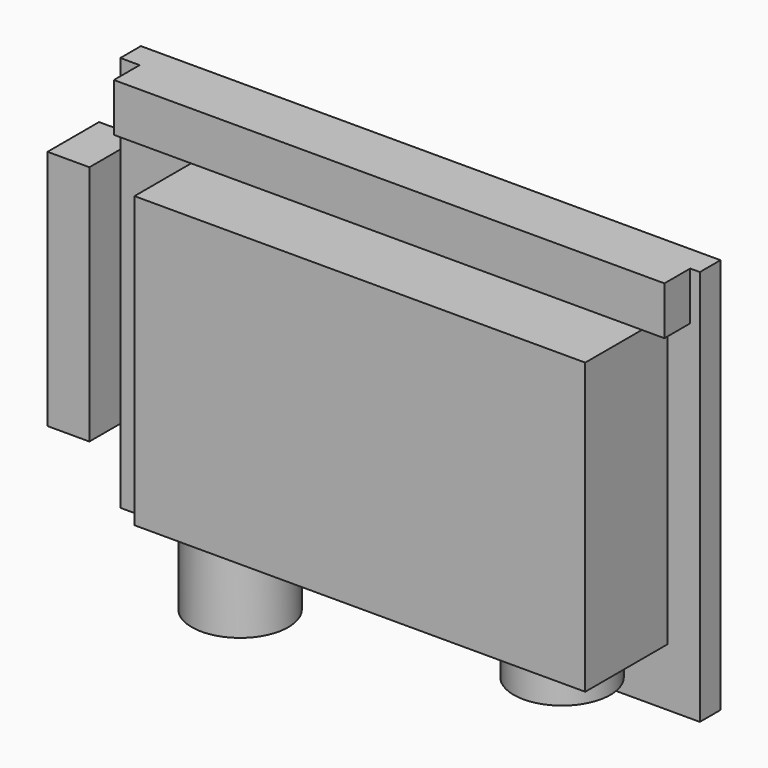
from build123d import *

# Parameters (mm, degrees)
BOX044_W                  = 180
BOX044_H                  = 123
BOX044_DEPTH              = 8
BOX045_W                  = 140
BOX045_H                  = 90
BOX045_DEPTH              = 40
CYLINDER019_R             = 15
CYLINDER019_DEPTH         = 10
CYLINDER020_R             = 15
CYLINDER020_DEPTH         = 24
BOX046_W                  = 75
BOX046_H                  = 13
BOX046_DEPTH              = 20
BOX047_W                  = 171
BOX047_H                  = 15
BOX047_DEPTH              = 10
FUSION013_ROLL_ANGLE      = -90
FUSION013_PLACEMENT_ANGLE = -180


with BuildPart() as cube039:
    # Box044 → Box044 (new body)
    with BuildSketch(Plane.XY):
        with Locations((90, 61.5)):
            Rectangle(BOX044_W, BOX044_H)
    extrude(amount=BOX044_DEPTH)


with BuildPart() as cube040:
    # Box045 → Box045 (new body)
    with BuildSketch(Plane(origin=(10, 15, 0), x_dir=(1, 0, 0), z_dir=(0, 0, 1))):
        with Locations((70, 45)):
            Rectangle(BOX045_W, BOX045_H)
    extrude(amount=BOX045_DEPTH)


with BuildPart() as cylinder019:
    # Cylinder019 → Cylinder019 (new body)
    with BuildSketch(Plane(origin=(30, 104, 24), x_dir=(1, 0, 0), z_dir=(0, 1, 0))):
        Circle(CYLINDER019_R)
    extrude(amount=CYLINDER019_DEPTH)


with BuildPart() as cylinder020:
    # Cylinder020 → Cylinder020 (new body)
    with BuildSketch(Plane(origin=(130, 104, 24), x_dir=(1, 0, 0), z_dir=(0, 1, 0))):
        Circle(CYLINDER020_R)
    extrude(amount=CYLINDER020_DEPTH)


with BuildPart() as cube041:
    # Box046 → Box046 (new body)
    with BuildSketch(Plane(origin=(193, 25, 0), x_dir=(0, 1, 0), z_dir=(0, 0, 1))):
        with Locations((37.5, 6.5)):
            Rectangle(BOX046_W, BOX046_H)
    extrude(amount=BOX046_DEPTH)


with BuildPart() as f_120_back:
    # Box047 → Box047 (new body)
    with BuildSketch(Plane(origin=(3, 0, 8), x_dir=(1, 0, 0), z_dir=(0, 0, 1))):
        with Locations((85.5, 7.5)):
            Rectangle(BOX047_W, BOX047_H)
    extrude(amount=BOX047_DEPTH)

    # Fusion013: union Cube039, Cube040, Cylinder019, Cylinder020, Cube041
    add(cube039.part)
    add(cube040.part)
    add(cylinder019.part)
    add(cylinder020.part)
    add(cube041.part)


with BuildPart() as f_120_back_1:
    # Fusion013 roll: moved
    add(f_120_back.part.rotate(Axis((0, 0, 0), (1, 0, 0)), FUSION013_ROLL_ANGLE))


with BuildPart() as f_120_back_2:
    # Fusion013 placement: moved
    add(f_120_back_1.part.moved(Location((195, -80, 185))).rotate(Axis((195, -80, 185), (0, 0, 1)), FUSION013_PLACEMENT_ANGLE))


solid = f_120_back_2.part
